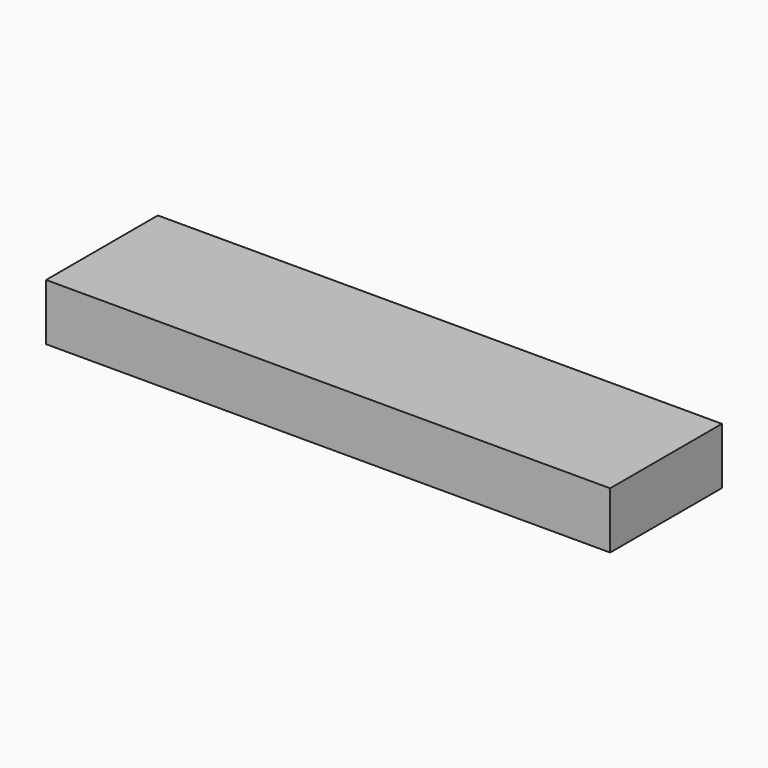
from build123d import *

# Parameters (mm, degrees)
F0_W     = 31.9
F0_H     = 7.9
F1_DEPTH = 3.2
F3_DEPTH = 2


with BuildPart() as f1:
    # F0 (on Top) → F1 (new body)
    with BuildSketch(Plane.XY):
        with Locations((4.8417709768, -0.7969564563)):
            Rectangle(F0_W, F0_H)
        with Locations((4.8417709768, -0.7969564563)):
            Rectangle(F0_W, F0_H)
    extrude(amount=F1_DEPTH)

    # F2 (on face) → F3 (cut)
    with BuildSketch(Plane(origin=(0, 0, 0), x_dir=(1, 0, 0), z_dir=(0, 0, -1))):
        with BuildLine():
            Line((-3.1332290232, 3.1969564563), (-9.5582290232, 3.1969564563))
            Line((-9.5582290232, 3.1969564563), (-9.5582290232, 0.7969564563))
            Line((-9.5582290232, 0.7969564563), (-4.6832290232, 0.7969564563))
            ThreePointArc((-4.6832290232, 0.7969564563), (-4.2292445341, 1.8929719672), (-3.1332290232, 2.3469564563))
            Line((-3.1332290232, 2.3469564563), (-3.1332290232, 3.1969564563))
        make_face()
        with BuildLine():
            Line((4.8417709768, 3.1969564563), (-3.1332290232, 3.1969564563))
            Line((-3.1332290232, 3.1969564563), (-3.1332290232, 2.3469564563))
            ThreePointArc((-3.1332290232, 2.3469564563), (-2.0372135124, 1.8929719672), (-1.5832290232, 0.7969564563))
            Line((-1.5832290232, 0.7969564563), (3.2917709768, 0.7969564563))
            ThreePointArc((3.2917709768, 0.7969564563), (3.7457554659, 1.8929719672), (4.8417709768, 2.3469564563))
            Line((4.8417709768, 2.3469564563), (4.8417709768, 3.1969564563))
        make_face()
        with BuildLine():
            Line((12.8167709768, 3.1969564563), (4.8417709768, 3.1969564563))
            Line((4.8417709768, 3.1969564563), (4.8417709768, 2.3469564563))
            ThreePointArc((4.8417709768, 2.3469564563), (5.9377864876, 1.8929719672), (6.3917709768, 0.7969564563))
            Line((6.3917709768, 0.7969564563), (11.2667709768, 0.7969564563))
            ThreePointArc((11.2667709768, 0.7969564563), (11.7207554659, 1.8929719672), (12.8167709768, 2.3469564563))
            Line((12.8167709768, 2.3469564563), (12.8167709768, 3.1969564563))
        make_face()
        with BuildLine():
            Line((19.2417709768, 3.1969564563), (12.8167709768, 3.1969564563))
            Line((12.8167709768, 3.1969564563), (12.8167709768, 2.3469564563))
            ThreePointArc((12.8167709768, 2.3469564563), (13.9127864876, 1.8929719672), (14.3667709768, 0.7969564563))
            Line((14.3667709768, 0.7969564563), (19.2417709768, 0.7969564563))
            Line((19.2417709768, 0.7969564563), (19.2417709768, 3.1969564563))
        make_face()
        with BuildLine():
            Line((19.2417709768, -1.6030435437), (19.2417709768, 0.7969564563))
            Line((19.2417709768, 0.7969564563), (14.3667709768, 0.7969564563))
            ThreePointArc((14.3667709768, 0.7969564563), (13.9127864876, -0.2990590545), (12.8167709768, -0.7530435437))
            Line((12.8167709768, -0.7530435437), (12.8167709768, -1.6030435437))
            Line((12.8167709768, -1.6030435437), (19.2417709768, -1.6030435437))
        make_face()
        with BuildLine():
            Line((11.2667709768, 0.7969564563), (6.3917709768, 0.7969564563))
            ThreePointArc((6.3917709768, 0.7969564563), (5.9377864876, -0.2990590545), (4.8417709768, -0.7530435437))
            Line((4.8417709768, -0.7530435437), (4.8417709768, -1.6030435437))
            Line((4.8417709768, -1.6030435437), (12.8167709768, -1.6030435437))
            Line((12.8167709768, -1.6030435437), (12.8167709768, -0.7530435437))
            ThreePointArc((12.8167709768, -0.7530435437), (11.7207554659, -0.2990590545), (11.2667709768, 0.7969564563))
        make_face()
        with BuildLine():
            Line((3.2917709768, 0.7969564563), (-1.5832290232, 0.7969564563))
            ThreePointArc((-1.5832290232, 0.7969564563), (-2.0372135124, -0.2990590545), (-3.1332290232, -0.7530435437))
            Line((-3.1332290232, -0.7530435437), (-3.1332290232, -1.6030435437))
            Line((-3.1332290232, -1.6030435437), (4.8417709768, -1.6030435437))
            Line((4.8417709768, -1.6030435437), (4.8417709768, -0.7530435437))
            ThreePointArc((4.8417709768, -0.7530435437), (3.7457554659, -0.2990590545), (3.2917709768, 0.7969564563))
        make_face()
        with BuildLine():
            Line((-4.6832290232, 0.7969564563), (-9.5582290232, 0.7969564563))
            Line((-9.5582290232, 0.7969564563), (-9.5582290232, -1.6030435437))
            Line((-9.5582290232, -1.6030435437), (-3.1332290232, -1.6030435437))
            Line((-3.1332290232, -1.6030435437), (-3.1332290232, -0.7530435437))
            ThreePointArc((-3.1332290232, -0.7530435437), (-4.2292445341, -0.2990590545), (-4.6832290232, 0.7969564563))
        make_face()
        with BuildLine():
            Line((-3.1332290232, 0.7969564563), (-3.1332290232, 1.5469564563))
            ThreePointArc((-3.1332290232, 1.5469564563), (-3.6635591091, 1.3272865422), (-3.8832290232, 0.7969564563))
            Line((-3.8832290232, 0.7969564563), (-3.1332290232, 0.7969564563))
        make_face()
        with BuildLine():
            Line((-3.1332290232, 0.7969564563), (-3.8832290232, 0.7969564563))
            ThreePointArc((-3.8832290232, 0.7969564563), (-3.6635591091, 0.2666263705), (-3.1332290232, 0.0469564563))
            Line((-3.1332290232, 0.0469564563), (-3.1332290232, 0.7969564563))
        make_face()
        with BuildLine():
            Line((-2.3832290232, 0.7969564563), (-3.1332290232, 0.7969564563))
            Line((-3.1332290232, 0.7969564563), (-3.1332290232, 0.0469564563))
            ThreePointArc((-3.1332290232, 0.0469564563), (-2.6028989373, 0.2666263705), (-2.3832290232, 0.7969564563))
        make_face()
        with BuildLine():
            ThreePointArc((-2.3832290232, 0.7969564563), (-2.6028989373, 1.3272865422), (-3.1332290232, 1.5469564563))
            Line((-3.1332290232, 1.5469564563), (-3.1332290232, 0.7969564563))
            Line((-3.1332290232, 0.7969564563), (-2.3832290232, 0.7969564563))
        make_face()
        with BuildLine():
            Line((4.8417709768, 0.7969564563), (4.8417709768, 1.5469564563))
            ThreePointArc((4.8417709768, 1.5469564563), (4.3114408909, 1.3272865422), (4.0917709768, 0.7969564563))
            Line((4.0917709768, 0.7969564563), (4.8417709768, 0.7969564563))
        make_face()
        with BuildLine():
            ThreePointArc((5.5917709768, 0.7969564563), (5.3721010627, 1.3272865422), (4.8417709768, 1.5469564563))
            Line((4.8417709768, 1.5469564563), (4.8417709768, 0.7969564563))
            Line((4.8417709768, 0.7969564563), (5.5917709768, 0.7969564563))
        make_face()
        with BuildLine():
            Line((4.8417709768, 0.0469564563), (4.8417709768, 0.7969564563))
            Line((4.8417709768, 0.7969564563), (4.0917709768, 0.7969564563))
            ThreePointArc((4.0917709768, 0.7969564563), (4.3114408909, 0.2666263705), (4.8417709768, 0.0469564563))
        make_face()
        with BuildLine():
            Line((5.5917709768, 0.7969564563), (4.8417709768, 0.7969564563))
            Line((4.8417709768, 0.7969564563), (4.8417709768, 0.0469564563))
            ThreePointArc((4.8417709768, 0.0469564563), (5.3721010627, 0.2666263705), (5.5917709768, 0.7969564563))
        make_face()
        with BuildLine():
            Line((12.8167709768, 0.7969564563), (12.8167709768, 1.5469564563))
            ThreePointArc((12.8167709768, 1.5469564563), (12.2864408909, 1.3272865422), (12.0667709768, 0.7969564563))
            Line((12.0667709768, 0.7969564563), (12.8167709768, 0.7969564563))
        make_face()
        with BuildLine():
            ThreePointArc((13.5667709768, 0.7969564563), (13.3471010627, 1.3272865422), (12.8167709768, 1.5469564563))
            Line((12.8167709768, 1.5469564563), (12.8167709768, 0.7969564563))
            Line((12.8167709768, 0.7969564563), (13.5667709768, 0.7969564563))
        make_face()
        with BuildLine():
            Line((13.5667709768, 0.7969564563), (12.8167709768, 0.7969564563))
            Line((12.8167709768, 0.7969564563), (12.8167709768, 0.0469564563))
            ThreePointArc((12.8167709768, 0.0469564563), (13.3471010627, 0.2666263705), (13.5667709768, 0.7969564563))
        make_face()
        with BuildLine():
            Line((12.8167709768, 0.0469564563), (12.8167709768, 0.7969564563))
            Line((12.8167709768, 0.7969564563), (12.0667709768, 0.7969564563))
            ThreePointArc((12.0667709768, 0.7969564563), (12.2864408909, 0.2666263705), (12.8167709768, 0.0469564563))
        make_face()
    extrude(amount=-F3_DEPTH, mode=Mode.SUBTRACT)


solid = f1.part
